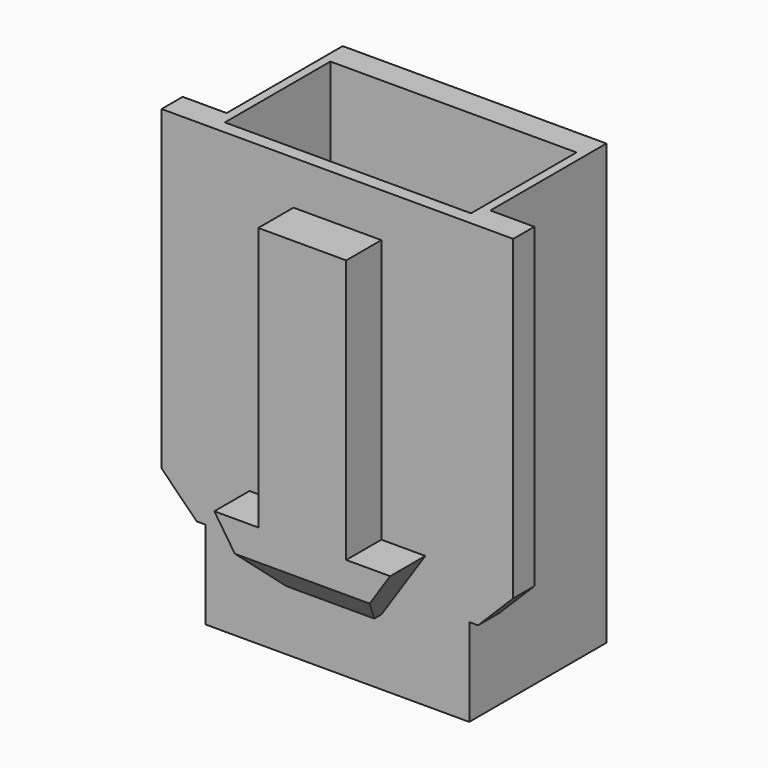
from build123d import *

# Parameters (mm, degrees)
F0_W     = 6
F0_H     = 3.9
F0_W_2   = 5.6
F0_H_2   = 3
F1_DEPTH = 10
F3_DEPTH = 1
F4_SIZE  = 0.8
F5_W     = 0.6
F5_H     = 8
F6_DEPTH = 1
F7_SIZE  = 0.8
F8_W     = 0.6
F8_H     = 8
F9_DEPTH = 1
F10_SIZE = 0.8


with BuildPart() as f1:
    # F0 (on Top) → F1 (new body)
    with BuildSketch(Plane.XY):
        Rectangle(F0_W, F0_H)
        with Locations((0, -0.15)):
            Rectangle(F0_W_2, F0_H_2, mode=Mode.SUBTRACT)
    extrude(amount=F1_DEPTH)

    # F2 (on face) → F3 (join)
    with BuildSketch(Plane.XZ.offset(1.95)):
        Polygon((1, 9), (-1, 9), (-1, 3), (-2, 3), (-1, 1.5), (0, 1.5), (1, 1.5), (2, 3), (1, 3), align=None)
        Polygon((1, 9), (-1, 9), (-1, 3), (-2, 3), (-1, 1.5), (0, 1.5), (1, 1.5), (2, 3), (1, 3), align=None)
    extrude(amount=F3_DEPTH)

    # F4
    f4_edges = [f1.edges().sort_by_distance(p)[0] for p in [
        (0, -2.95, 1.5),
    ]]
    chamfer(f4_edges, length=F4_SIZE)

    # F5 (on face) → F6 (join)
    with BuildSketch(Plane.YZ.offset(3)):
        with Locations((-1.65, 6)):
            Rectangle(F5_W, F5_H)
    extrude(amount=F6_DEPTH)

    # F7
    f7_edges = [f1.edges().sort_by_distance(p)[0] for p in [
        (4, -1.65, 2),
    ]]
    chamfer(f7_edges, length=F7_SIZE)

    # F8 (on face) → F9 (join)
    with BuildSketch(Plane(origin=(-3, 0, 0), x_dir=(0, -1, 0), z_dir=(-1, 0, 0))):
        with Locations((1.65, 6)):
            Rectangle(F8_W, F8_H)
    extrude(amount=F9_DEPTH)

    # F10
    f10_edges = [f1.edges().sort_by_distance(p)[0] for p in [
        (-4, -1.65, 2),
    ]]
    chamfer(f10_edges, length=F10_SIZE)


solid = f1.part
